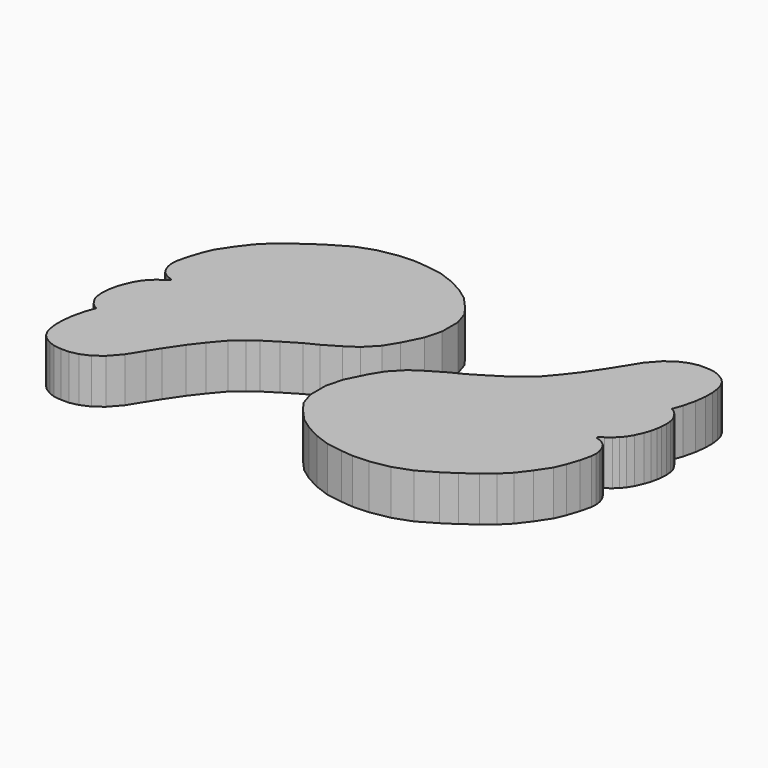
from build123d import *

# Parameters (mm, degrees)
PAD032_DEPTH            = 5
BODY032_PLACEMENT_ANGLE = 180
PAD031_DEPTH            = 5


with BuildPart() as body032:
    # Sketch034 → Pad032 (new body)
    with BuildSketch(Plane.XY):
        Polygon((-0.715895, 10.459235), (0.958153, 11.443971), (2.336782, 12.133285), (4.060069, 13.167257), (5.537171, 14.102756), (6.536532, 14.831632), (7.712062, 15.853839), (8.973101, 17.336113), (10.079276, 18.774139), (11.296068, 20.566143), (12.092514, 21.827183), (13.116936, 23.475929), (14.223111, 24.736969), (15.240791, 25.489166), (16.280596, 25.931637), (17.221134, 26.137039), (18.110924, 26.137039), (18.926565, 26.048061), (19.579077, 25.810783), (20.261248, 25.395548), (20.720972, 24.935823), (21.062059, 24.312971), (21.241928, 23.641508), (21.345737, 22.840698), (21.345737, 21.87676), (21.197439, 20.690374), (20.871256, 19.321636), (20.485682, 18.239059), (20.894186, 17.997505), (21.202349, 17.699284), (21.480688, 17.301653), (21.749088, 16.804617), (21.858437, 16.327463), (21.90814, 15.76084), (21.878248, 15.092189), (21.808664, 14.545448), (21.659552, 13.879419), (21.430916, 13.203449), (21.042017, 12.334372), (20.664268, 11.708105), (20.256699, 11.221009), (19.799425, 10.813439), (19.252686, 10.395929), (18.77553, 10.048003), (18.764149, 9.924158), (18.923201, 9.834691), (19.221422, 9.765106), (19.569347, 9.566292), (19.998131, 9.245623), (20.23671, 8.897697), (20.435524, 8.450364), (20.544872, 8.11238), (20.634338, 7.525877), (20.584635, 6.919492), (20.302982, 5.715654), (19.850153, 4.339052), (19.361095, 3.179808), (18.328644, 1.640186), (17.289362, 0.272043), (16.238798, -0.778522), (15.043327, -1.720408), (13.576158, -2.8072), (12.181441, -3.71286), (10.236815, -4.842392), (8.226252, -5.56692), (6.107007, -5.947297), (4.295688, -6.01975), (2.991537, -5.892957), (1.173591, -5.613963), (-0.443623, -5.019885), (-1.961825, -4.227778), (-3.248996, -3.303655), (-4.536168, -1.884467), (-5.262265, -0.86133), (-5.75733, 0.656871), (-5.75733, 2.868166), (-5.262265, 4.716413), (-4.237876, 6.772507), (-3.346758, 8.224701), (-2.043983, 9.573533), align=None)
    extrude(amount=PAD032_DEPTH)


with BuildPart() as body032_1:
    # Body032 placement: moved
    add(body032.part.moved(Location((-10, 20, -5))).rotate(Axis((-10, 20, -5), (0, 0, 1)), BODY032_PLACEMENT_ANGLE))


with BuildPart() as fusion002:
    # Sketch033 → Pad031 (new body)
    with BuildSketch(Plane.XY):
        Polygon((-0.715895, 10.459235), (0.958153, 11.443971), (2.336782, 12.133285), (4.060069, 13.167257), (5.537171, 14.102756), (6.536532, 14.831632), (7.712062, 15.853839), (8.973101, 17.336113), (10.079276, 18.774139), (11.296068, 20.566143), (12.092514, 21.827183), (13.116936, 23.475929), (14.223111, 24.736969), (15.240791, 25.489166), (16.280596, 25.931637), (17.221134, 26.137039), (18.110924, 26.137039), (18.926565, 26.048061), (19.579077, 25.810783), (20.261248, 25.395548), (20.720972, 24.935823), (21.062059, 24.312971), (21.241928, 23.641508), (21.345737, 22.840698), (21.345737, 21.87676), (21.197439, 20.690374), (20.871256, 19.321636), (20.485682, 18.239059), (20.894186, 17.997505), (21.202349, 17.699284), (21.480688, 17.301653), (21.749088, 16.804617), (21.858437, 16.327463), (21.90814, 15.76084), (21.878248, 15.092189), (21.808664, 14.545448), (21.659552, 13.879419), (21.430916, 13.203449), (21.042017, 12.334372), (20.664268, 11.708105), (20.256699, 11.221009), (19.799425, 10.813439), (19.252686, 10.395929), (18.77553, 10.048003), (18.764149, 9.924158), (18.923201, 9.834691), (19.221422, 9.765106), (19.569347, 9.566292), (19.998131, 9.245623), (20.23671, 8.897697), (20.435524, 8.450364), (20.544872, 8.11238), (20.634338, 7.525877), (20.584635, 6.919492), (20.302982, 5.715654), (19.850153, 4.339052), (19.361095, 3.179808), (18.328644, 1.640186), (17.289362, 0.272043), (16.238798, -0.778522), (15.043327, -1.720408), (13.576158, -2.8072), (12.181441, -3.71286), (10.236815, -4.842392), (8.226252, -5.56692), (6.107007, -5.947297), (4.295688, -6.01975), (2.991537, -5.892957), (1.173591, -5.613963), (-0.443623, -5.019885), (-1.961825, -4.227778), (-3.248996, -3.303655), (-4.536168, -1.884467), (-5.262265, -0.86133), (-5.75733, 0.656871), (-5.75733, 2.868166), (-5.262265, 4.716413), (-4.237876, 6.772507), (-3.346758, 8.224701), (-2.043983, 9.573533), align=None)
    extrude(amount=PAD031_DEPTH)


with BuildPart() as fusion002_1:
    # Body031 placement: moved
    add(fusion002.part.moved(Location((0, 0, -5))))

    # Fusion002: union Body032
    add(body032_1.part)


with BuildPart() as fusion002_2:
    # Fusion002 placement: moved
    add(fusion002_1.part.moved(Location((-80, -10, 0))))


solid = fusion002_2.part
